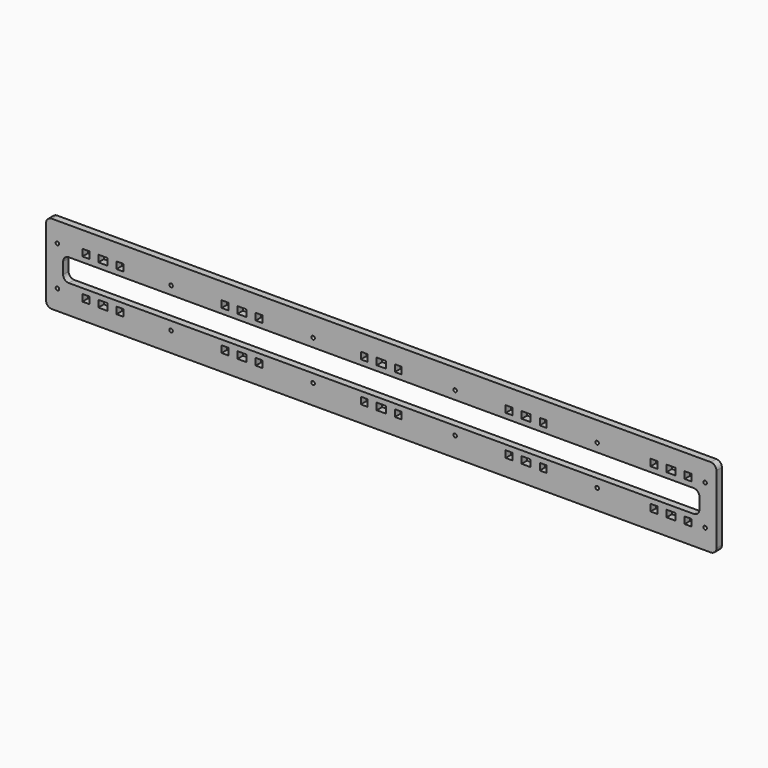
from build123d import *

# Parameters (mm, degrees)
F0_R     = 1.55
F0_W     = 6
F0_H     = 6
F0_W_2   = 8
F1_DEPTH = 6


with BuildPart() as f1:
    # F0 (on Front) → F1 (new body)
    with BuildSketch(Plane.XZ):
        with BuildLine():
            Line((-295, -23.00274), (-295, -83.00274))
            ThreePointArc((-295, -83.00274), (-293.535534, -86.538274), (-290, -88.00274))
            Line((-290, -88.00274), (290, -88.00274))
            ThreePointArc((290, -88.00274), (293.535534, -86.538274), (295, -83.00274))
            Line((295, -83.00274), (295, -23.00274))
            ThreePointArc((295, -23.00274), (293.535534, -19.467206), (290, -18.00274))
            Line((290, -18.00274), (-290, -18.00274))
            ThreePointArc((-290, -18.00274), (-293.535534, -19.467206), (-295, -23.00274))
        make_face()
        with Locations((-285, -70.50274)):
            Circle(F0_R, mode=Mode.SUBTRACT)
        with Locations((-260, -70.50274)):
            Rectangle(F0_W, F0_H, mode=Mode.SUBTRACT)
        with Locations((-245, -70.50274)):
            Rectangle(F0_W_2, F0_H, mode=Mode.SUBTRACT)
        with Locations((-230, -70.50274)):
            Rectangle(F0_W, F0_H, mode=Mode.SUBTRACT)
        with Locations((-185, -70.50274)):
            Circle(F0_R, mode=Mode.SUBTRACT)
        with Locations((-60, -70.50274)):
            Circle(F0_R, mode=Mode.SUBTRACT)
        with Locations((-137.5, -70.46684)):
            Rectangle(F0_W, F0_H, mode=Mode.SUBTRACT)
        with Locations((-122.5, -70.46684)):
            Rectangle(F0_W_2, F0_H, mode=Mode.SUBTRACT)
        with Locations((-107.5, -70.46684)):
            Rectangle(F0_W, F0_H, mode=Mode.SUBTRACT)
        with Locations((-15, -70.430941)):
            Rectangle(F0_W, F0_H, mode=Mode.SUBTRACT)
        with Locations((65, -70.50274)):
            Circle(F0_R, mode=Mode.SUBTRACT)
        with Locations((190, -70.50274)):
            Circle(F0_R, mode=Mode.SUBTRACT)
        with Locations((240, -70.50274)):
            Rectangle(F0_W, F0_H, mode=Mode.SUBTRACT)
        with Locations((255, -70.50274)):
            Rectangle(F0_W_2, F0_H, mode=Mode.SUBTRACT)
        with Locations((270, -70.50274)):
            Rectangle(F0_W, F0_H, mode=Mode.SUBTRACT)
        with Locations((285, -70.50274)):
            Circle(F0_R, mode=Mode.SUBTRACT)
        with Locations((0, -70.430941)):
            Rectangle(F0_W_2, F0_H, mode=Mode.SUBTRACT)
        with Locations((15, -70.430941)):
            Rectangle(F0_W, F0_H, mode=Mode.SUBTRACT)
        with Locations((112.5, -70.46684)):
            Rectangle(F0_W, F0_H, mode=Mode.SUBTRACT)
        with Locations((127.5, -70.46684)):
            Rectangle(F0_W_2, F0_H, mode=Mode.SUBTRACT)
        with Locations((142.5, -70.46684)):
            Rectangle(F0_W, F0_H, mode=Mode.SUBTRACT)
        with BuildLine():
            ThreePointArc((-280, -48.00274), (-278.535534, -44.467206), (-275, -43.00274))
            Line((-275, -43.00274), (275, -43.00274))
            ThreePointArc((275, -43.00274), (278.535534, -44.467206), (280, -48.00274))
            Line((280, -48.00274), (280, -58.00274))
            ThreePointArc((280, -58.00274), (278.535534, -61.538274), (275, -63.00274))
            Line((275, -63.00274), (-275, -63.00274))
            ThreePointArc((-275, -63.00274), (-278.535534, -61.538274), (-280, -58.00274))
            Line((-280, -58.00274), (-280, -48.00274))
        make_face(mode=Mode.SUBTRACT)
        with Locations((-285, -35.50274)):
            Circle(F0_R, mode=Mode.SUBTRACT)
        with Locations((-260, -35.50274)):
            Rectangle(F0_W, F0_H, mode=Mode.SUBTRACT)
        with Locations((-245, -35.50274)):
            Rectangle(F0_W_2, F0_H, mode=Mode.SUBTRACT)
        with Locations((-230, -35.50274)):
            Rectangle(F0_W, F0_H, mode=Mode.SUBTRACT)
        with Locations((-185, -35.50274)):
            Circle(F0_R, mode=Mode.SUBTRACT)
        with Locations((-137.5, -35.538639)):
            Rectangle(F0_W, F0_H, mode=Mode.SUBTRACT)
        with Locations((-122.5, -35.538639)):
            Rectangle(F0_W_2, F0_H, mode=Mode.SUBTRACT)
        with Locations((-107.5, -35.538639)):
            Rectangle(F0_W, F0_H, mode=Mode.SUBTRACT)
        with Locations((-60, -35.50274)):
            Circle(F0_R, mode=Mode.SUBTRACT)
        with Locations((-15, -35.574538)):
            Rectangle(F0_W, F0_H, mode=Mode.SUBTRACT)
        with Locations((0, -35.574538)):
            Rectangle(F0_W_2, F0_H, mode=Mode.SUBTRACT)
        with Locations((15, -35.574538)):
            Rectangle(F0_W, F0_H, mode=Mode.SUBTRACT)
        with Locations((65, -35.50274)):
            Circle(F0_R, mode=Mode.SUBTRACT)
        with Locations((112.5, -35.538639)):
            Rectangle(F0_W, F0_H, mode=Mode.SUBTRACT)
        with Locations((127.5, -35.538639)):
            Rectangle(F0_W_2, F0_H, mode=Mode.SUBTRACT)
        with Locations((142.5, -35.538639)):
            Rectangle(F0_W, F0_H, mode=Mode.SUBTRACT)
        with Locations((190, -35.50274)):
            Circle(F0_R, mode=Mode.SUBTRACT)
        with Locations((240, -35.50274)):
            Rectangle(F0_W, F0_H, mode=Mode.SUBTRACT)
        with Locations((255, -35.50274)):
            Rectangle(F0_W_2, F0_H, mode=Mode.SUBTRACT)
        with Locations((270, -35.50274)):
            Rectangle(F0_W, F0_H, mode=Mode.SUBTRACT)
        with Locations((285, -35.50274)):
            Circle(F0_R, mode=Mode.SUBTRACT)
    extrude(amount=F1_DEPTH)


solid = f1.part
